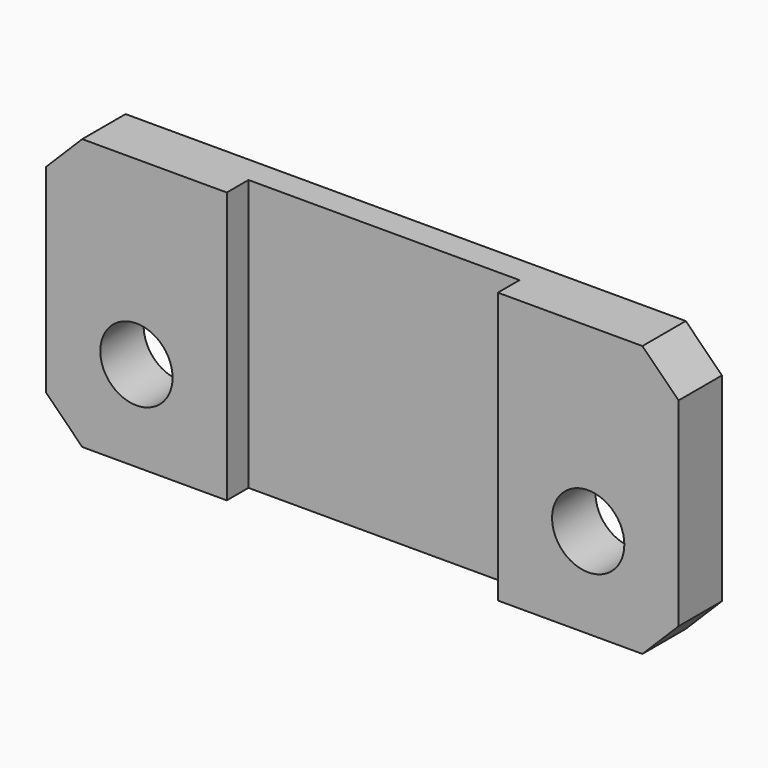
from build123d import *

# Parameters (mm, degrees)
F0_W     = 35
F0_H     = 15
F1_DEPTH = 4.5
F2_W     = 15
F2_H     = 1.5
F3_DEPTH = 15.001
F4_R     = 2
F5_DEPTH = 10
F6_SIZE  = 2
F7_W     = 39.253565
F7_H     = 1.5
F8_DEPTH = 15.001


with BuildPart() as f1:
    # F0 (on Front) → F1 (new body)
    with BuildSketch(Plane.XZ):
        Rectangle(F0_W, F0_H)
    extrude(amount=F1_DEPTH)

    # F2 (on face) → F3 (cut, through all)
    with BuildSketch(Plane.XY.offset(7.5)):
        with Locations((0, -2.25)):
            Rectangle(F2_W, F2_H)
    extrude(amount=-F3_DEPTH, mode=Mode.SUBTRACT)

    # F4 (on face) → F5 (cut)
    with BuildSketch(Plane.XZ.offset(4.5)):
        with Locations((12.5, -2.5)):
            Circle(F4_R)
        with Locations((-12.5, -2.5)):
            Circle(F4_R)
    extrude(amount=-F5_DEPTH, mode=Mode.SUBTRACT)

    # F6
    f6_edges = [f1.edges().sort_by_distance(p)[0] for p in [
        (-17.5, -2.25, 7.5),
        (17.5, -2.25, 7.5),
        (17.5, -2.25, -7.5),
        (-17.5, -2.25, -7.5),
    ]]
    chamfer(f6_edges, length=F6_SIZE)

    # F7 (on face) → F8 (cut, through all)
    with BuildSketch(Plane.XY.offset(7.5)):
        with Locations((0.571815, -3.75)):
            Rectangle(F7_W, F7_H)
    extrude(amount=-F8_DEPTH, mode=Mode.SUBTRACT)


solid = f1.part
